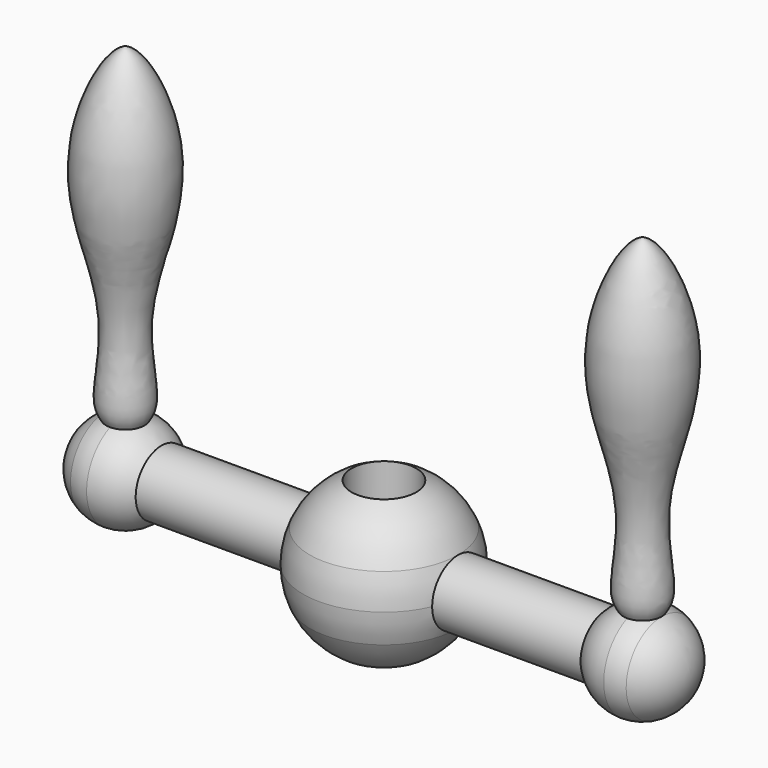
from build123d import *


with BuildPart() as f1:
    # F0 (on Front) → F1 (revolve)
    with BuildSketch(Plane.XZ):
        with BuildLine():
            Line((-7.9375, 0), (-3.175, 0))
            Line((-3.175, 0), (-3.175, 3.175))
            Line((-3.175, 3.175), (-7.2748389157, 3.175))
            ThreePointArc((-7.2748389157, 3.175), (-7.7700688589, 1.6217077968), (-7.9375, 0))
        make_face()
        with BuildLine():
            Line((-3.175, -3.175), (-3.175, 0))
            Line((-3.175, 0), (-7.9375, 0))
            ThreePointArc((-7.9375, 0), (-7.7700688589, -1.6217077968), (-7.2748389157, -3.175))
            Line((-7.2748389157, -3.175), (-3.175, -3.175))
        make_face()
        with BuildLine():
            Line((-3.175, 3.175), (-3.175, 7.2748389157))
            ThreePointArc((-3.175, 7.2748389157), (-5.6126600757, 5.6126600757), (-7.2748389157, 3.175))
            Line((-7.2748389157, 3.175), (-3.175, 3.175))
        make_face()
        with BuildLine():
            ThreePointArc((-7.2748389157, -3.175), (-5.6126600757, -5.6126600757), (-3.175, -7.2748389157))
            Line((-3.175, -7.2748389157), (-3.175, -3.175))
            Line((-3.175, -3.175), (-7.2748389157, -3.175))
        make_face()
    revolve(axis=Axis((0, 0, -5.1538590342), (0, 0, -1)))

    # F0 (on Front) → F2 (revolve)
    with BuildSketch(Plane.XZ):
        with BuildLine():
            Line((-20.6375, 0), (-7.9375, 0))
            ThreePointArc((-7.9375, 0), (-7.7700688589, 1.6217077968), (-7.2748389157, 3.175))
            Line((-7.2748389157, 3.175), (-21.8502420857, 3.175))
            ThreePointArc((-21.8502420857, 3.175), (-20.9510041404, 1.6993652025), (-20.6375, 0))
        make_face()
        with BuildLine():
            ThreePointArc((7.2748389157, 3.175), (7.7700688589, 1.6217077968), (7.9375, 0))
            Line((7.9375, 0), (20.6375, 0))
            ThreePointArc((20.6375, 0), (20.9510041404, 1.6993652025), (21.8502420857, 3.175))
            Line((21.8502420857, 3.175), (7.2748389157, 3.175))
        make_face()
        with BuildLine():
            Line((-30.1625, 0), (-25.4, 0))
            Line((-25.4, 0), (-25.4, 3.175))
            Line((-25.4, 3.175), (-25.4, 4.7625))
            ThreePointArc((-25.4, 4.7625), (-26.36557418, 4.6635901142), (-27.2910413441, 4.3709688726))
            ThreePointArc((-27.2910413441, 4.3709688726), (-29.3804202448, 2.6148921439), (-30.1625, 0))
        make_face()
        with BuildLine():
            Line((-25.4, 0), (-20.6375, 0))
            ThreePointArc((-20.6375, 0), (-20.9510041404, 1.6993652025), (-21.8502420857, 3.175))
            Line((-21.8502420857, 3.175), (-25.4, 3.175))
            Line((-25.4, 3.175), (-25.4, 0))
        make_face()
        with BuildLine():
            Line((-25.4, 3.175), (-21.8502420857, 3.175))
            ThreePointArc((-21.8502420857, 3.175), (-23.4557175167, 4.3475478002), (-25.4, 4.7625))
            Line((-25.4, 4.7625), (-25.4, 3.175))
        make_face()
        with BuildLine():
            ThreePointArc((21.8502420857, 3.175), (20.9510041404, 1.6993652025), (20.6375, 0))
            Line((20.6375, 0), (25.4, 0))
            Line((25.4, 0), (25.4, 3.175))
            Line((25.4, 3.175), (21.8502420857, 3.175))
        make_face()
        with BuildLine():
            ThreePointArc((25.4, 4.7625), (23.4557175167, 4.3475478002), (21.8502420857, 3.175))
            Line((21.8502420857, 3.175), (25.4, 3.175))
            Line((25.4, 3.175), (25.4, 4.7625))
        make_face()
        with BuildLine():
            Line((25.4, 3.175), (25.4, 0))
            Line((25.4, 0), (30.1625, 0))
            ThreePointArc((30.1625, 0), (29.3804202448, 2.6148921439), (27.2910413441, 4.3709688726))
            ThreePointArc((27.2910413441, 4.3709688726), (26.36557418, 4.6635901142), (25.4, 4.7625))
            Line((25.4, 4.7625), (25.4, 3.175))
        make_face()
    revolve(axis=Axis((0.3062523901, 0, 0), (1, 0, 0)))

    # F0 (on Front) → F3 (revolve)
    with BuildSketch(Plane.XZ):
        with BuildLine():
            ThreePointArc((-27.2910413441, 4.3709688726), (-26.36557418, 4.6635901142), (-25.4, 4.7625))
            Line((-25.4, 4.7625), (-25.4, 36.5125))
            add(Edge.make_bspline(
                [(-25.4, 36.5125), (-26.816893369, 36.1733324826), (-29.9766271953, 30.3995680819), (-30.0177491556, 22.0177094067), (-26.5618020908, 13.4239134261), (-28.2605474591, 5.8526801132), (-27.5281520721, 4.7952938673), (-27.2910413441, 4.3709688726)],
                knots=[0, 0, 0, 0, 0.2074904054, 0.4438338536, 0.6895354369, 0.9020581403, 1, 1, 1, 1], degree=3))
        make_face()
    revolve(axis=Axis((-25.4, 0, 14.7146796808), (0, 0, -1)))

    # F0 (on Front) → F4 (revolve)
    with BuildSketch(Plane.XZ):
        with BuildLine():
            Line((25.4, 36.5125), (25.4, 4.7625))
            ThreePointArc((25.4, 4.7625), (26.36557418, 4.6635901142), (27.2910413441, 4.3709688726))
            add(Edge.make_bspline(
                [(25.4, 36.5125), (26.816893369, 36.1733324826), (29.9766271953, 30.3995680819), (30.0177491556, 22.0177094067), (26.5618020908, 13.4239134261), (28.2605474591, 5.8526801132), (27.5281520721, 4.7952938673), (27.2910413441, 4.3709688726)],
                knots=[0, 0, 0, 0, 0.2074904054, 0.4438338536, 0.6895354369, 0.9020581403, 1, 1, 1, 1], degree=3))
        make_face()
    revolve(axis=Axis((25.4, 0, 13.9341913164), (0, 0, -1)))


solid = f1.part
